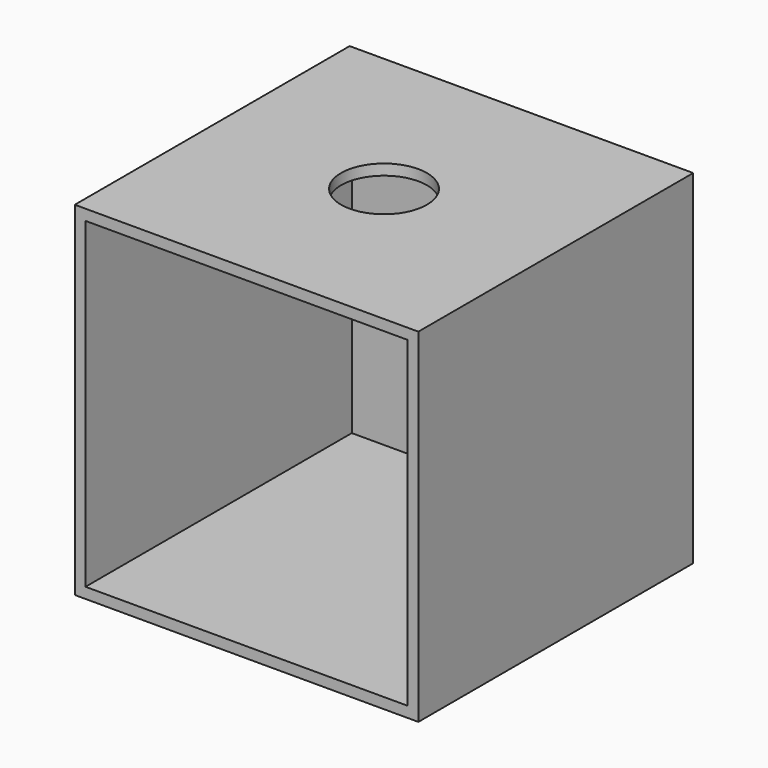
from build123d import *

# Parameters (mm, degrees)
F0_W     = 100
F0_H     = 100
F1_DEPTH = 100
F2_T     = -3.125
F3_R     = 12.5
F4_DEPTH = 3.125


with BuildPart() as f1:
    # F0 (on Top) → F1 (new body)
    with BuildSketch(Plane.XY):
        with Locations((-4.0166154504, 6.2387808433)):
            Rectangle(F0_W, F0_H)
    extrude(amount=F1_DEPTH)

    # F2
    f2_openings = [f1.faces().sort_by_distance(p)[0] for p in [
        (-4.016615, -43.761219, 50),
    ]]
    offset(amount=F2_T, openings=f2_openings)

    # F3 (on face) → F4 (cut, through all)
    with BuildSketch(Plane.XY.offset(100)):
        with Locations((-4.0166154504, 6.2387808433)):
            Circle(F3_R)
    extrude(amount=-F4_DEPTH, mode=Mode.SUBTRACT)


solid = f1.part
